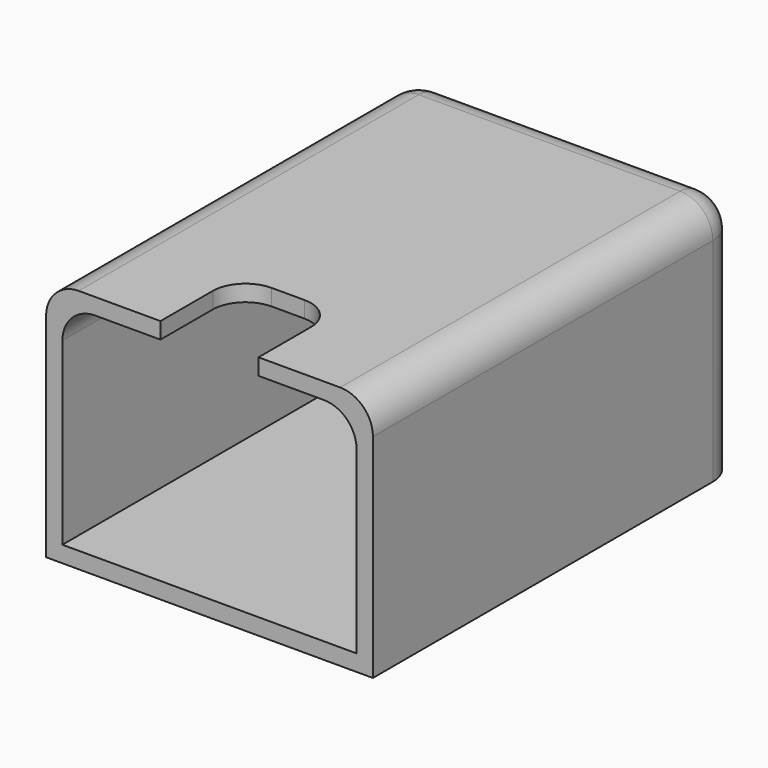
from build123d import *

# Parameters (mm, degrees)
F0_W     = 20
F0_H     = 15
F1_DEPTH = 28
F2_T     = -1
F3_R     = 2
F4_R     = 2
F5_R     = 2
F7_DEPTH = 1
F8_R     = 2


with BuildPart() as f1:
    # F0 (on Front) → F1 (new body)
    with BuildSketch(Plane.XZ):
        Rectangle(F0_W, F0_H)
    extrude(amount=F1_DEPTH)

    # F2
    f2_openings = [f1.faces().sort_by_distance(p)[0] for p in [
        (0, -28, 0),
    ]]
    offset(amount=F2_T, openings=f2_openings)

    # F3
    f3_edges = [f1.edges().sort_by_distance(p)[0] for p in [
        (-9, -14.5, 6.5),
        (9, -14.5, 6.5),
    ]]
    fillet(f3_edges, radius=F3_R)

    # F4
    f4_edges = [f1.edges().sort_by_distance(p)[0] for p in [
        (10, -14, 7.5),
        (-10, -14, 7.5),
    ]]
    fillet(f4_edges, radius=F4_R)

    # F5
    f5_edges = [f1.edges().sort_by_distance(p)[0] for p in [
        (0, 0, 7.5),
        (10, 0, -1),
        (-10, 0, -1),
    ]]
    fillet(f5_edges, radius=F5_R)

    # F6 (on face) → F7 (cut, through all)
    with BuildSketch(Plane.XY.offset(7.5)):
        Polygon((3, -28), (3, -22), (-3, -22), (-3, -28), (0, -28), align=None)
    extrude(amount=-F7_DEPTH, mode=Mode.SUBTRACT)

    # F8
    f8_edges = [f1.edges().sort_by_distance(p)[0] for p in [
        (-3, -22, 7),
        (3, -22, 7),
    ]]
    fillet(f8_edges, radius=F8_R)


solid = f1.part
